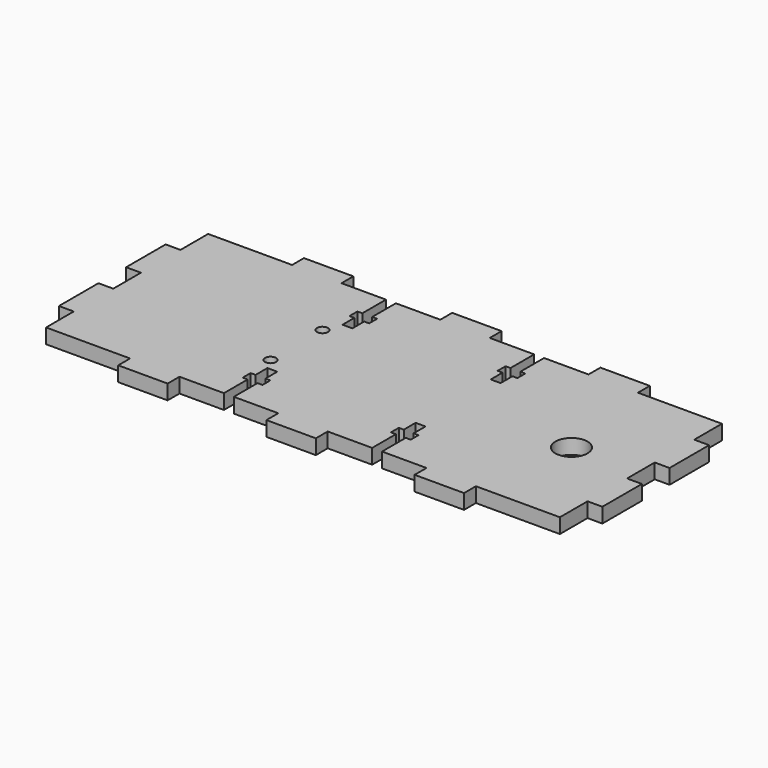
from build123d import *

# Parameters (mm, degrees)
F0_R     = 1.125
F0_R_2   = 3.25
F1_DEPTH = 3


with BuildPart() as f1:
    # F0 (on Top) → F1 (new body)
    with BuildSketch(Plane.XY):
        Polygon((-17, 0), (0, 0), (0, 7), (3, 7), (3, 17), (0, 17), (0, 24), (3, 24), (3, 34), (0, 34), (0, 41), (-17, 41), (-17, 44), (-27, 44), (-27, 41), (-36, 41), (-36, 35), (-35, 35), (-35, 33), (-36, 33), (-36, 30), (-38, 30), (-38, 33), (-39, 33), (-39, 35), (-38, 35), (-38, 41), (-47, 41), (-47, 44), (-57, 44), (-57, 41), (-66, 41), (-66, 35), (-65, 35), (-65, 33), (-66, 33), (-66, 30), (-68, 30), (-68, 33), (-69, 33), (-69, 35), (-68, 35), (-68, 41), (-77, 41), (-77, 44), (-87, 44), (-87, 41), (-104, 41), (-104, 34), (-107, 34), (-107, 24), (-104, 24), (-104, 17), (-107, 17), (-107, 7), (-104, 7), (-104, 0), (-87, 0), (-87, -3), (-77, -3), (-77, 0), (-68, 0), (-68, 6), (-69, 6), (-69, 8), (-68, 8), (-68, 11), (-66, 11), (-66, 8), (-65, 8), (-65, 6), (-66, 6), (-66, 0), (-57, 0), (-57, -3), (-47, -3), (-47, 0), (-38, 0), (-38, 6), (-39, 6), (-39, 8), (-38, 8), (-38, 11), (-36, 11), (-36, 8), (-35, 8), (-35, 6), (-36, 6), (-36, 0), (-27, 0), (-27, -3), (-17, -3), align=None)
        with Locations((-69.33824, 13.472463)):
            Circle(F0_R, mode=Mode.SUBTRACT)
        with Locations((-13.5, 19.8)):
            Circle(F0_R_2, mode=Mode.SUBTRACT)
        with Locations((-69.33824, 26.605537)):
            Circle(F0_R, mode=Mode.SUBTRACT)
    extrude(amount=F1_DEPTH)


solid = f1.part
